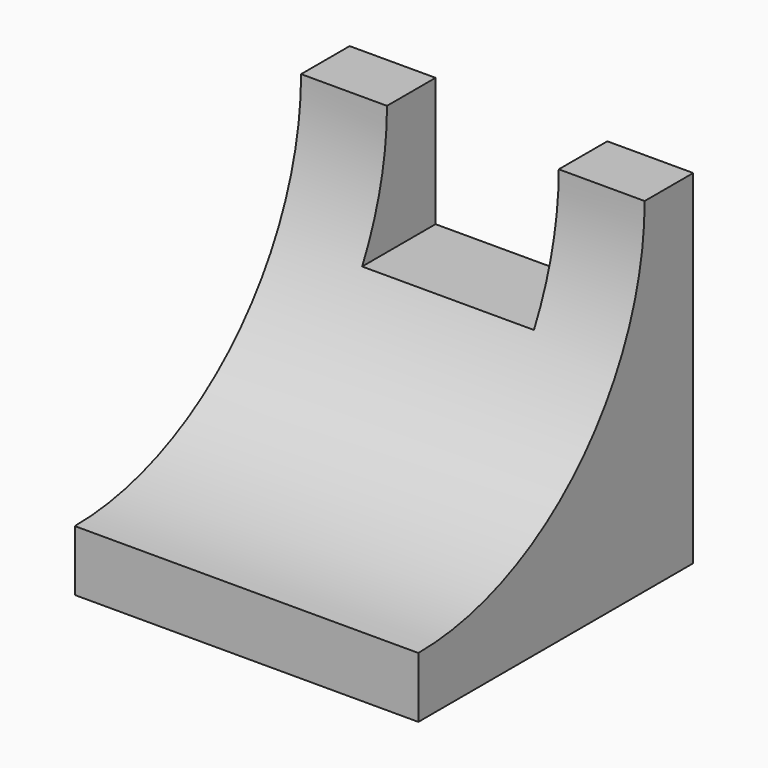
from build123d import *

# Parameters (mm, degrees)
F1_DEPTH = 40
F3_DEPTH = 80.001


with BuildPart() as f1:
    # F0 (on Front) → F1 (new body, symmetric)
    with BuildSketch(Plane.XZ):
        Polygon((-21.581216, 48.518489), (-41.581216, 48.518489), (-41.581216, -31.481511), (38.418784, -31.481511), (38.418784, 48.518489), (18.418784, 48.518489), (18.418784, 18.518489), (-21.581216, 18.518489), align=None)
    extrude(amount=F1_DEPTH, both=True)

    # F2 (on face) → F3 (cut, through all)
    with BuildSketch(Plane(origin=(-41.581216, 0, 0), x_dir=(0, -1, 0), z_dir=(-1, 0, 0))):
        with BuildLine():
            Line((40, -17.350387), (40, -15.578494))
            Line((40, -15.578494), (40, 48.518489))
            Line((40, 48.518489), (-25.868876, 48.518489))
            ThreePointArc((-25.868876, 48.518489), (-6.576329, 1.94216), (40, -17.350387))
        make_face()
    extrude(amount=-F3_DEPTH, mode=Mode.SUBTRACT)


solid = f1.part
